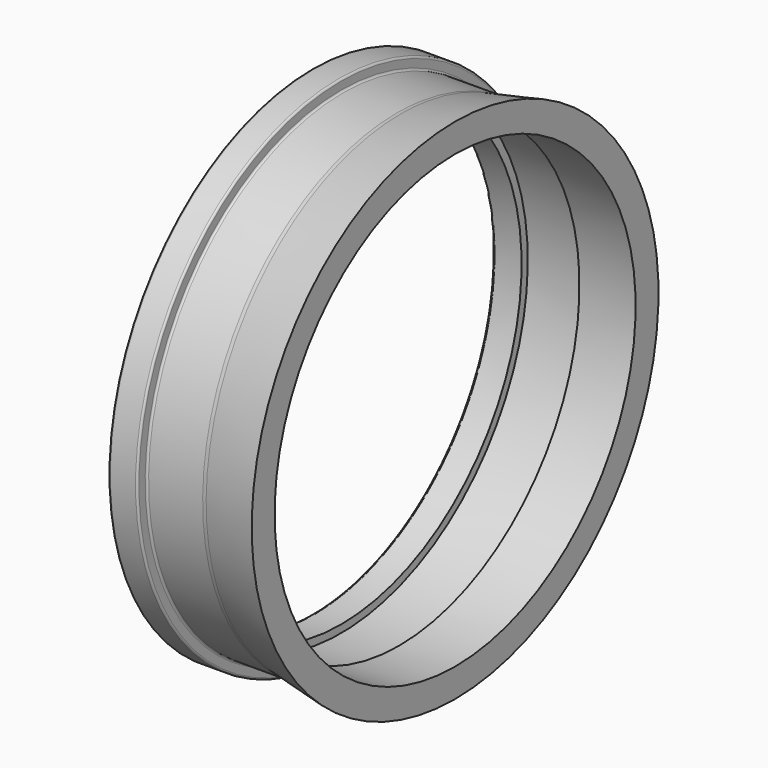
from build123d import *

# Parameters (mm, degrees)
F3_R     = 50
F4_R     = 5
F5_W     = 906.862557
F5_H     = 1744.742334
F6_DEPTH = 1000


with BuildPart() as f2:
    # F0 (on Front) → F2 (revolve)
    with BuildSketch(Plane.XZ):
        Polygon((75, 660), (0, 660), (0, 585), (75, 585), (75, 605), (225, 605), (225, 585), (1070, 585), (1070, 685), (500, 685), (225, 630), (75, 630), align=None)
    revolve(axis=Axis((388.548315, 0, 0), (1, 0, 0)))

    # F3
    f3_edges = [f2.edges().sort_by_distance(p)[0] for p in [
        (500, 0, -685),
        (225, 0, -630),
    ]]
    fillet(f3_edges, radius=F3_R)

    # F4
    f4_edges = [f2.edges().sort_by_distance(p)[0] for p in [
        (75, 0, -660),
        (75, 0, -630),
        (0, 0, -660),
        (0, 0, -585),
        (1070, 0, -685),
    ]]
    fillet(f4_edges, radius=F4_R)

    # F5 (on Front) → F6 (cut, symmetric)
    with BuildSketch(Plane.XZ):
        with Locations((824.053854, 4.612178)):
            Rectangle(F5_W, F5_H)
    extrude(amount=F6_DEPTH, both=True, mode=Mode.SUBTRACT)


solid = f2.part
